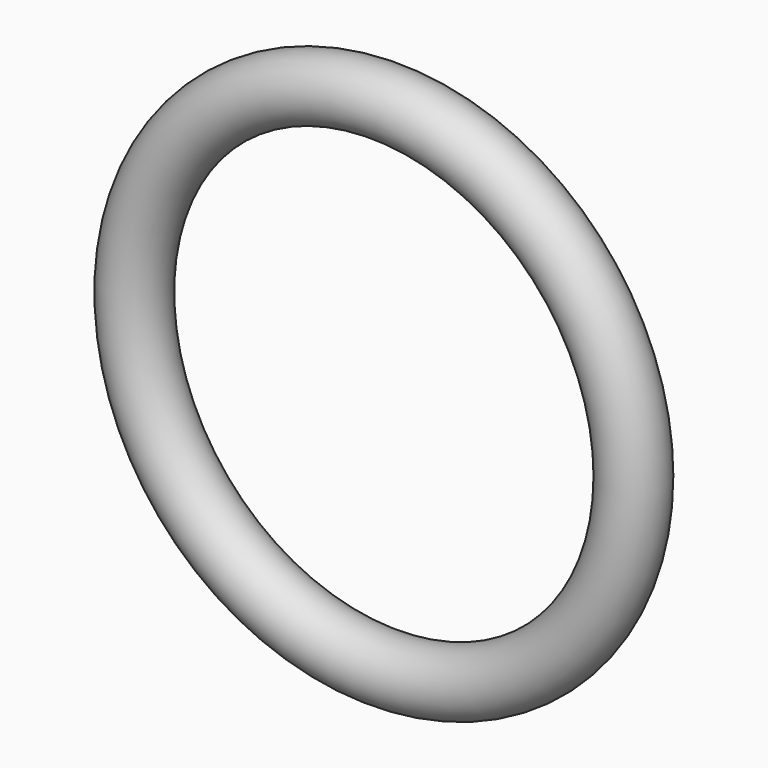
from build123d import *

# Parameters (mm, degrees)
F1_R = 0.79375


with BuildPart() as f2:
    # F2: sweep along a path in F0
    with BuildLine(Plane.XZ) as f2_path:
        CenterArc((0, 0), 6.35, 0, 360)
    # F1 (on Right) → F2 (sweep)
    with BuildSketch(Plane.YZ):
        with Locations((0, 6.35)):
            Circle(F1_R)
    sweep(path=f2_path.line)


solid = f2.part
